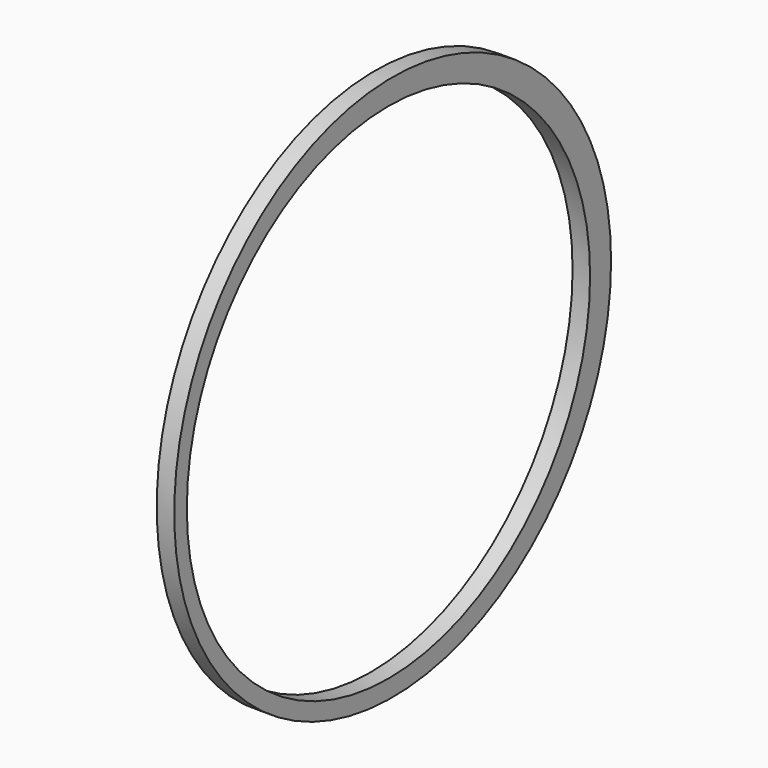
from build123d import *

# Parameters (mm, degrees)
F0_R     = 39
F0_R_2   = 36
F1_DEPTH = 2.5


with BuildPart() as f1:
    # F0 (on Right) → F1 (new body)
    with BuildSketch(Plane.YZ):
        with Locations((0.747441, 0.345504)):
            Circle(F0_R)
        Circle(F0_R_2, mode=Mode.SUBTRACT)
    extrude(amount=F1_DEPTH)


solid = f1.part
